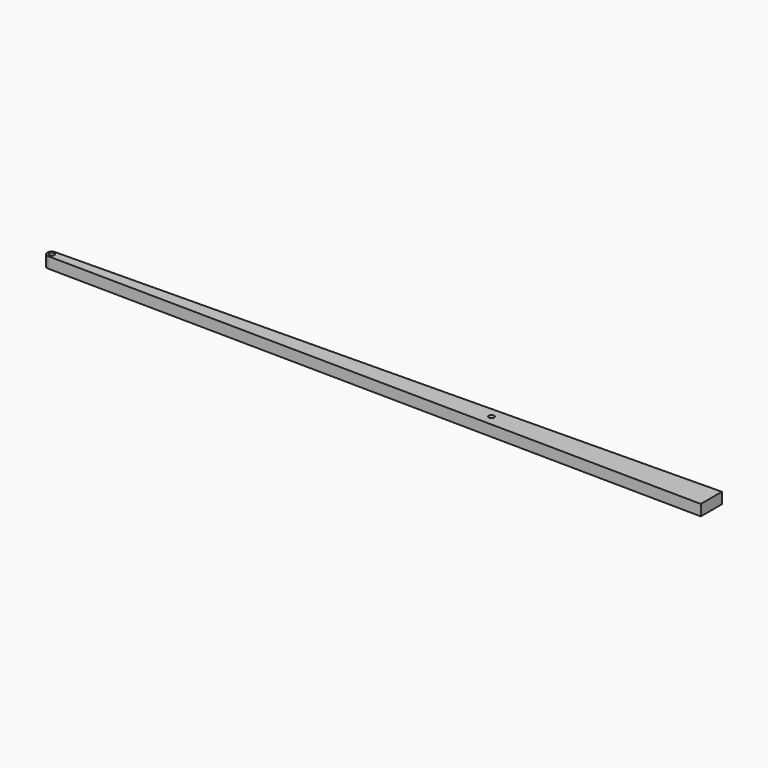
from build123d import *

# Parameters (mm, degrees)
F0_R     = 6
F1_DEPTH = 25


with BuildPart() as f1:
    # F0 (on Top) → F1 (new body)
    with BuildSketch(Plane.XY):
        with BuildLine():
            ThreePointArc((0, -10), (7.071068, -7.071068), (10, 0))
            ThreePointArc((10, 0), (7.071068, 7.071068), (0, 10))
            ThreePointArc((0, 10), (-10, 0), (0, -10))
        make_face()
        Circle(F0_R, mode=Mode.SUBTRACT)
        with BuildLine():
            ThreePointArc((0, 10), (7.071068, 7.071068), (10, 0))
            ThreePointArc((10, 0), (7.071068, -7.071068), (0, -10))
            Line((0, -10), (1500, -30))
            Line((1500, -30), (1500, 0))
            Line((1500, 0), (1500, 30))
            Line((1500, 30), (0, 10))
        make_face()
        with Locations((1000, 0)):
            Circle(F0_R, mode=Mode.SUBTRACT)
    extrude(amount=F1_DEPTH)


solid = f1.part
